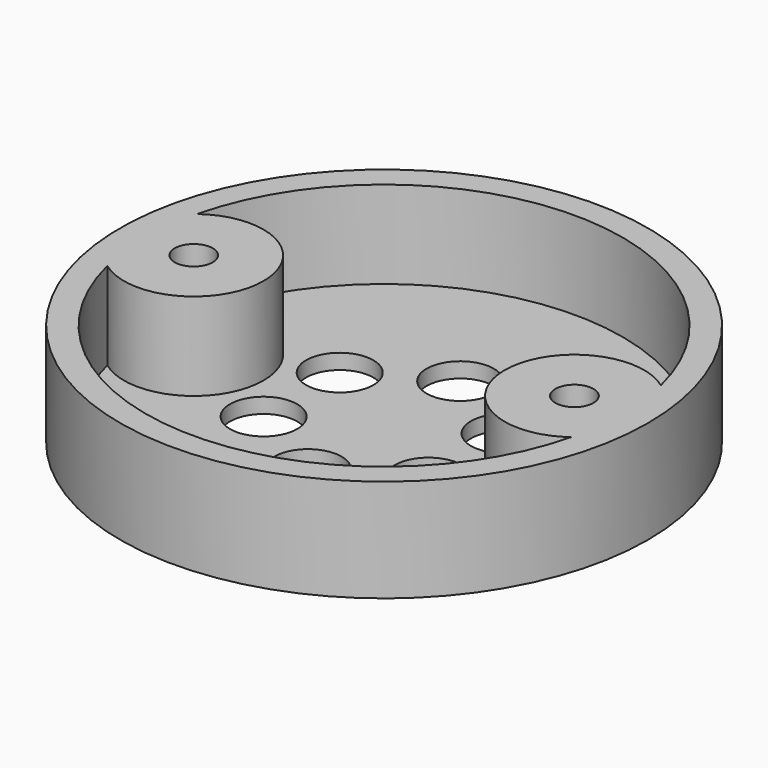
from build123d import *

# Parameters (mm, degrees)
F0_R     = 20.8
F0_R_2   = 3.5
F1_DEPTH = 1.2
F2_R     = 20.8
F2_R_2   = 3.5
F3_DEPTH = 3
F4_R     = 20.8
F4_R_2   = 1.5
F5_DEPTH = 3.9
F6_R     = 2.65
F7_DEPTH = 1.2


with BuildPart() as f1:
    # F0 (on Top) → F1 (new body)
    with BuildSketch(Plane.XY):
        with Locations((20.8, 20.8)):
            Circle(F0_R)
        with Locations((5.8, 20.8)):
            Circle(F0_R_2, mode=Mode.SUBTRACT)
        with Locations((35.8, 20.8)):
            Circle(F0_R_2, mode=Mode.SUBTRACT)
    extrude(amount=F1_DEPTH)

    # F2 (on face) → F3 (join)
    with BuildSketch(Plane.XY.offset(1.2)):
        with Locations((20.8, 20.8)):
            Circle(F2_R)
        with BuildLine():
            ThreePointArc((39.073, 16.379879), (20.8, 2), (2.527, 16.379879))
            ThreePointArc((2.527, 16.379879), (11.3, 20.8), (2.527, 25.220121))
            ThreePointArc((2.527, 25.220121), (20.8, 39.6), (39.073, 25.220121))
            ThreePointArc((39.073, 25.220121), (30.3, 20.8), (39.073, 16.379879))
        make_face(mode=Mode.SUBTRACT)
        with Locations((5.8, 20.8)):
            Circle(F2_R_2, mode=Mode.SUBTRACT)
        with Locations((35.8, 20.8)):
            Circle(F2_R_2, mode=Mode.SUBTRACT)
    extrude(amount=F3_DEPTH)

    # F4 (on face) → F5 (join)
    with BuildSketch(Plane.XY.offset(4.2)):
        with Locations((20.8, 20.8)):
            Circle(F4_R)
        with BuildLine():
            ThreePointArc((39.073, 16.379879), (20.8, 2), (2.527, 16.379879))
            ThreePointArc((2.527, 16.379879), (11.3, 20.8), (2.527, 25.220121))
            ThreePointArc((2.527, 25.220121), (20.8, 39.6), (39.073, 25.220121))
            ThreePointArc((39.073, 25.220121), (30.3, 20.8), (39.073, 16.379879))
        make_face(mode=Mode.SUBTRACT)
        with Locations((5.8, 20.8)):
            Circle(F4_R_2, mode=Mode.SUBTRACT)
        with Locations((35.8, 20.8)):
            Circle(F4_R_2, mode=Mode.SUBTRACT)
    extrude(amount=F5_DEPTH)

    # F6 (on face) → F7 (cut, through all)
    with BuildSketch(Plane.XY.offset(1.2)):
        with Locations((14.304809, 24.55)):
            Circle(F6_R)
        with Locations((20.8, 28.3)):
            Circle(F6_R)
        with Locations((27.295191, 24.55)):
            Circle(F6_R)
        with Locations((27.295191, 17.05)):
            Circle(F6_R)
        with Locations((20.8, 13.3)):
            Circle(F6_R)
        with Locations((14.304809, 17.05)):
            Circle(F6_R)
    extrude(amount=-F7_DEPTH, mode=Mode.SUBTRACT)


solid = f1.part
